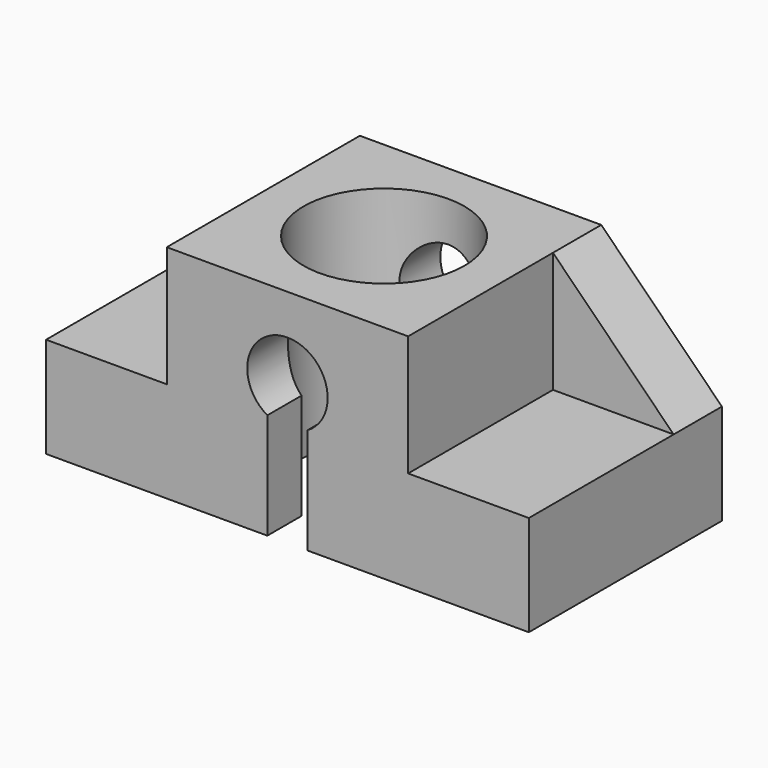
from build123d import *

# Parameters (mm, degrees)
F1_DEPTH = 600
F3_DEPTH = 150
F5_DEPTH = 600.001
F6_R     = 200
F7_DEPTH = 550.001


with BuildPart() as f1:
    # F0 (on Front) → F1 (new body)
    with BuildSketch(Plane.XZ):
        Polygon((302.476975, 1044.568934), (302.476975, 794.568934), (1502.476975, 794.568934), (1502.476975, 1044.568934), (1202.476975, 1044.568934), (1202.476975, 1344.568934), (602.476975, 1344.568934), (602.476975, 1044.568934), align=None)
    extrude(amount=F1_DEPTH)

    # F2 (on face) → F3 (join)
    with BuildSketch(Plane(origin=(0, 0, 0), x_dir=(-1, 0, 0), z_dir=(0, 1, 0))):
        Polygon((-1202.476975, 1344.568934), (-1502.476975, 1044.568934), (-1202.476975, 1044.568934), align=None)
        Polygon((-302.476975, 1044.568934), (-602.476975, 1344.568934), (-602.476975, 1044.568934), align=None)
    extrude(amount=-F3_DEPTH)

    # F4 (on face) → F5 (cut, through all)
    with BuildSketch(Plane.XZ.offset(600)):
        with BuildLine():
            Line((952.476975, 445.364194), (952.476975, 1057.966394))
            ThreePointArc((952.476975, 1057.966394), (902.476975, 1244.568934), (852.476975, 1057.966394))
            Line((852.476975, 1057.966394), (852.476975, 445.364194))
            Line((852.476975, 445.364194), (952.476975, 445.364194))
        make_face()
    extrude(amount=-F5_DEPTH, mode=Mode.SUBTRACT)

    # F6 (on face) → F7 (cut, through all)
    with BuildSketch(Plane.XY.offset(1344.568934)):
        with Locations((902.476975, -300)):
            Circle(F6_R)
    extrude(amount=-F7_DEPTH, mode=Mode.SUBTRACT)


solid = f1.part
